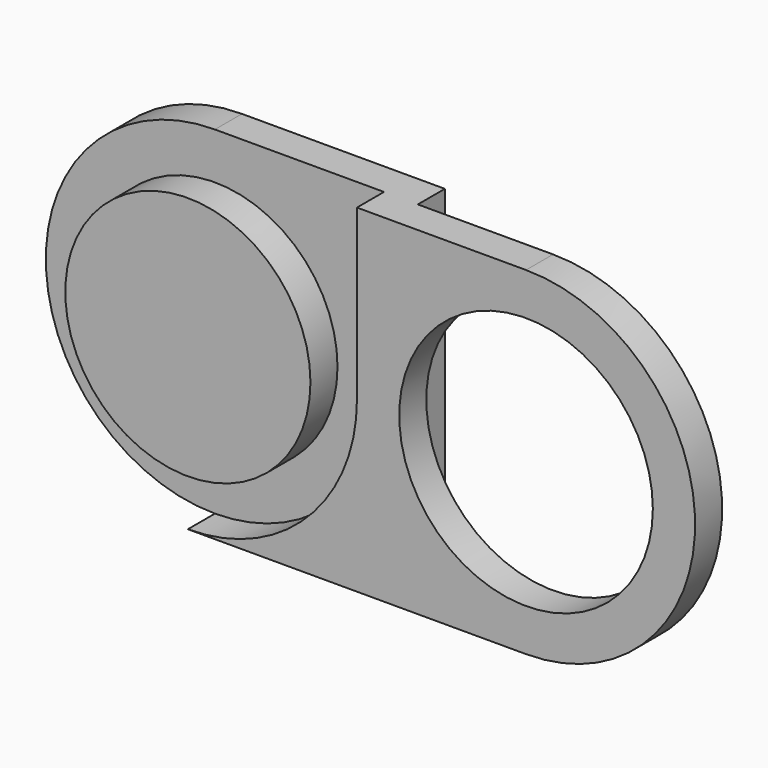
from build123d import *

# Parameters (mm, degrees)
F0_R          = 7.5
F1_DEPTH      = 2
F0_R_2        = 7.25
F2_DEPTH      = 2
F3_DEPTH      = 2
F3_DEPTH_BACK = 2


with BuildPart() as f1:
    # F0 (on Front) → F1 (new body)
    with BuildSketch(Plane.XZ):
        with BuildLine():
            Line((-8, 10), (-8, -10))
            Line((-8, -10), (0, -10))
            ThreePointArc((0, -10), (10, 0), (0, 10))
            Line((0, 10), (-8, 10))
        make_face()
        Circle(F0_R, mode=Mode.SUBTRACT)
        with BuildLine():
            Line((-10, 10), (-10, 0))
            ThreePointArc((-10, 0), (-12.928932, -7.071068), (-20, -10))
            Line((-20, -10), (-8, -10))
            Line((-8, -10), (-8, 10))
            Line((-8, 10), (-10, 10))
        make_face()
    extrude(amount=F1_DEPTH)

    # F0 (on Front) → F2 (join)
    with BuildSketch(Plane.XZ):
        with BuildLine():
            Line((-10, 10), (-10, 0))
            ThreePointArc((-10, 0), (-12.928932, -7.071068), (-20, -10))
            Line((-20, -10), (-8, -10))
            Line((-8, -10), (-8, 10))
            Line((-8, 10), (-10, 10))
        make_face()
        with BuildLine():
            ThreePointArc((-20, -10), (-12.928932, -7.071068), (-10, 0))
            Line((-10, 0), (-10, 10))
            Line((-10, 10), (-20, 10))
            ThreePointArc((-20, 10), (-30, 0), (-20, -10))
        make_face()
        with Locations((-20, 0)):
            Circle(F0_R_2, mode=Mode.SUBTRACT)
    extrude(amount=-F2_DEPTH)

    # F0 (on Front) → F3 (join, two sides)
    with BuildSketch(Plane.XZ) as f3_sk:
        with Locations((-20, 0)):
            Circle(F0_R_2)
    extrude(amount=F3_DEPTH)
    extrude(f3_sk.sketch, amount=-F3_DEPTH_BACK)


solid = f1.part
